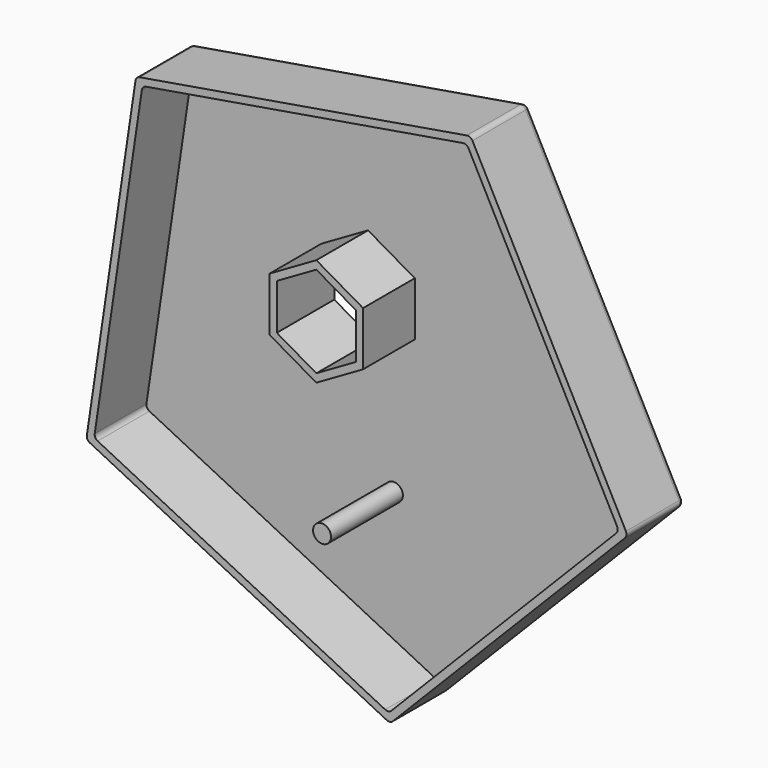
from build123d import *

# Parameters (mm, degrees)
F1_DEPTH = 40
F2_T     = -4
F3_R     = 3
F4_R     = 5
F5_DEPTH = 50


with BuildPart() as f1:
    # F0 (on Front) → F1 (new body)
    with BuildSketch(Plane.XZ):
        Polygon((26.7151626776, -158.4525242576), (158.9527449935, -23.5568932488), (71.5230363335, 143.8935635605), (-114.7490775608, 112.4880062915), (-142.4418664438, -74.3721523457), align=None)
        Polygon((-14.3848736808, 50.5347126111), (7.6121715753, 37.8347126111), (7.6121715753, 12.4347126111), (-14.3848736808, -0.2652873889), (-36.381918937, 12.4347126111), (-36.381918937, 37.8347126111), align=None, mode=Mode.SUBTRACT)
    extrude(amount=F1_DEPTH)

    # F2
    f2_openings = [f1.faces().sort_by_distance(p)[0] for p in [
        (0.403766, -40, -0.705501),
    ]]
    offset(amount=F2_T, openings=f2_openings, kind=Kind.INTERSECTION)

    # F3
    f3_edges = [f1.edges().sort_by_distance(p)[0] for p in [
        (-57.863352, 0, -116.412338),
        (92.833954, 0, -91.004709),
        (-128.595472, 0, 19.057927),
        (-21.613021, 0, 128.190785),
        (115.237891, 0, 60.168335),
        (71.523036, -20, 143.893564),
        (-114.749078, -20, 112.488006),
        (-142.441866, -20, -74.372152),
        (26.715163, -20, -158.452524),
        (158.952745, -20, -23.556893),
        (69.322328, -22, 139.466069),
        (-111.218337, -22, 109.026837),
        (-138.05904, -22, -72.083778),
        (154.061891, -22, -22.832066),
        (25.893158, -22, -153.577062),
    ]]
    fillet(f3_edges, radius=F3_R)

    # F4 (on face) → F5 (join)
    with BuildSketch(Plane.XZ.offset(4)):
        with Locations((0, -68.4551969171)):
            Circle(F4_R)
    extrude(amount=F5_DEPTH)


solid = f1.part
